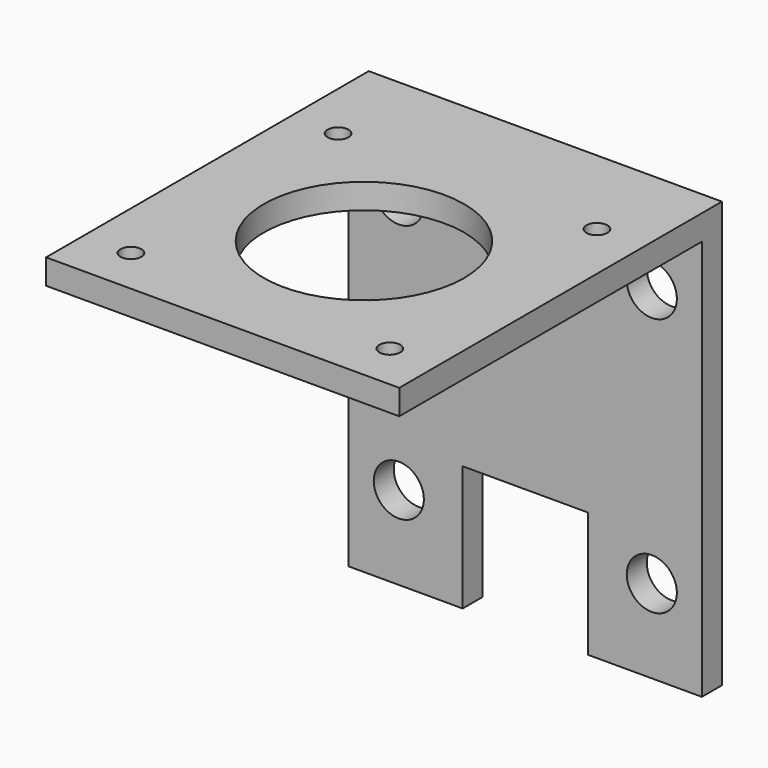
from build123d import *

# Parameters (mm, degrees)
SKETCH_R     = 1.25
SKETCH_R_2   = 12
PAD_DEPTH    = 3
SKETCH001_W  = 42.3
SKETCH001_H  = 3
PAD001_DEPTH = 48
SKETCH002_R  = 3
SKETCH002_W  = 15
SKETCH002_H  = 15
POCKET_DEPTH = 48.301


with BuildPart() as part:
    # Sketch → Pad (new body)
    with BuildSketch(Plane.XY):
        Polygon((0, 0), (42.3, 0), (42.3, 42.3), (42.3, 48.3), (0, 48.3), (0, 42.3), align=None)
        with Locations((5.65, 36.65)):
            Circle(SKETCH_R, mode=Mode.SUBTRACT)
        with Locations((36.65, 36.65)):
            Circle(SKETCH_R, mode=Mode.SUBTRACT)
        with Locations((5.65, 5.65)):
            Circle(SKETCH_R, mode=Mode.SUBTRACT)
        with Locations((36.65, 5.65)):
            Circle(SKETCH_R, mode=Mode.SUBTRACT)
        with Locations((21.15, 21.15)):
            Circle(SKETCH_R_2, mode=Mode.SUBTRACT)
    extrude(amount=PAD_DEPTH)

    # Sketch001 → Pad001 (new body)
    with BuildSketch(Plane(origin=(0, 0, 0), x_dir=(1, 0, 0), z_dir=(0, 0, -1))):
        with Locations((21.15, -46.8)):
            Rectangle(SKETCH001_W, SKETCH001_H)
    extrude(amount=PAD001_DEPTH)

    # Sketch002 → Pocket (cut, through all)
    with BuildSketch(Plane(origin=(0, 48.3, 0), x_dir=(-1, 0, 0), z_dir=(0, 1, 0))):
        with Locations((-36.3, -7)):
            Circle(SKETCH002_R)
        with Locations((-6, -7)):
            Circle(SKETCH002_R)
        with Locations((-36.3, -38)):
            Circle(SKETCH002_R)
        with Locations((-6, -38)):
            Circle(SKETCH002_R)
        with Locations((-21.15, -40.5)):
            Rectangle(SKETCH002_W, SKETCH002_H)
    extrude(amount=-POCKET_DEPTH, mode=Mode.SUBTRACT)


solid = part.part
